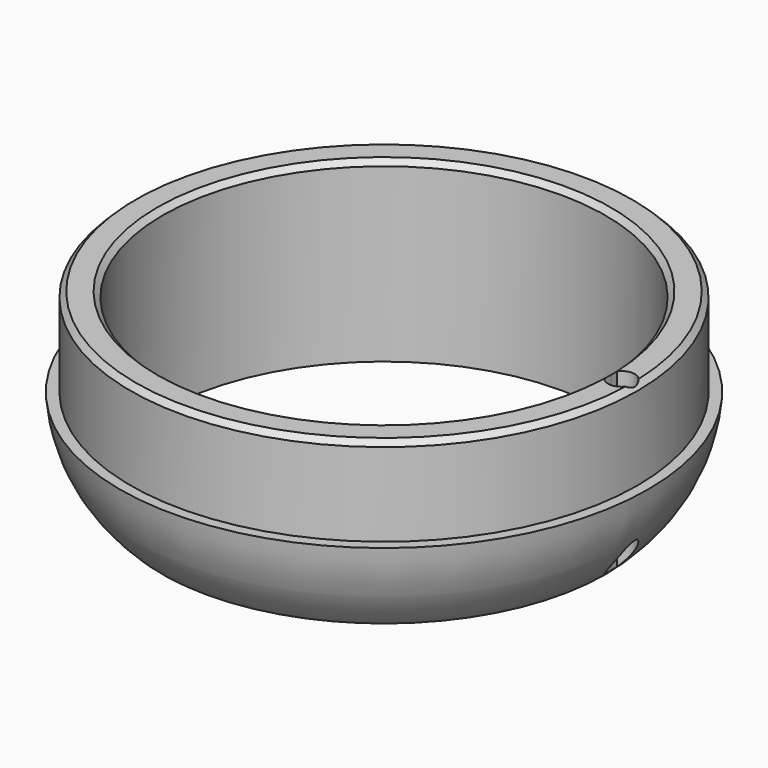
from build123d import *

# Parameters (mm, degrees)
F2_SIZE  = 0.762
F4_DEPTH = 25.4


with BuildPart() as f1:
    # F0 (on Front) → F1 (revolve)
    with BuildSketch(Plane.XZ):
        with BuildLine():
            Line((31.742, 25.4), (31.742, 0))
            ThreePointArc((31.742, 0), (35.9915506311, 5.7744213345), (37.846, 12.7))
            Line((37.846, 12.7), (36.322, 12.7))
            Line((36.322, 12.7), (36.322, 25.4))
            Line((36.322, 25.4), (31.742, 25.4))
        make_face()
    revolve(axis=Axis((0, 0, 7.8702876784), (0, 0, 1)))

    # F2
    f2_edges = [f1.edges().sort_by_distance(p)[0] for p in [
        (-31.742, 0, 25.4),
        (-36.322, 0, 25.4),
    ]]
    chamfer(f2_edges, length=F2_SIZE)

    # F3 (on face) → F4 (cut)
    with BuildSketch(Plane.XY.offset(25.4)):
        with BuildLine():
            ThreePointArc((35.56, 0), (35.5552903274, 0.5787311389), (35.5411625573, 1.15730898))
            ThreePointArc((35.5411625573, 1.15730898), (34.002844509, 1.9048339039), (32.4848033237, 1.1169462916))
            ThreePointArc((32.4848033237, 1.1169462916), (32.4992004766, 0.5585556218), (32.504, 0))
            ThreePointArc((32.504, 0), (32.4992004766, -0.5585556218), (32.4848033237, -1.1169462916))
            ThreePointArc((32.4848033237, -1.1169462916), (34.002844509, -1.9048339039), (35.5411625573, -1.15730898))
            ThreePointArc((35.5411625573, -1.15730898), (35.5552903274, -0.5787311389), (35.56, 0))
        make_face()
        with BuildLine():
            ThreePointArc((35.5411625573, -1.15730898), (35.8323835058, -0.6109215696), (35.933, 0))
            ThreePointArc((35.933, 0), (35.8323835058, 0.6109215696), (35.5411625573, 1.15730898))
            ThreePointArc((35.5411625573, 1.15730898), (35.5552903274, 0.5787311389), (35.56, 0))
            ThreePointArc((35.56, 0), (35.5552903274, -0.5787311389), (35.5411625573, -1.15730898))
        make_face()
    extrude(amount=-F4_DEPTH, mode=Mode.SUBTRACT)


solid = f1.part
